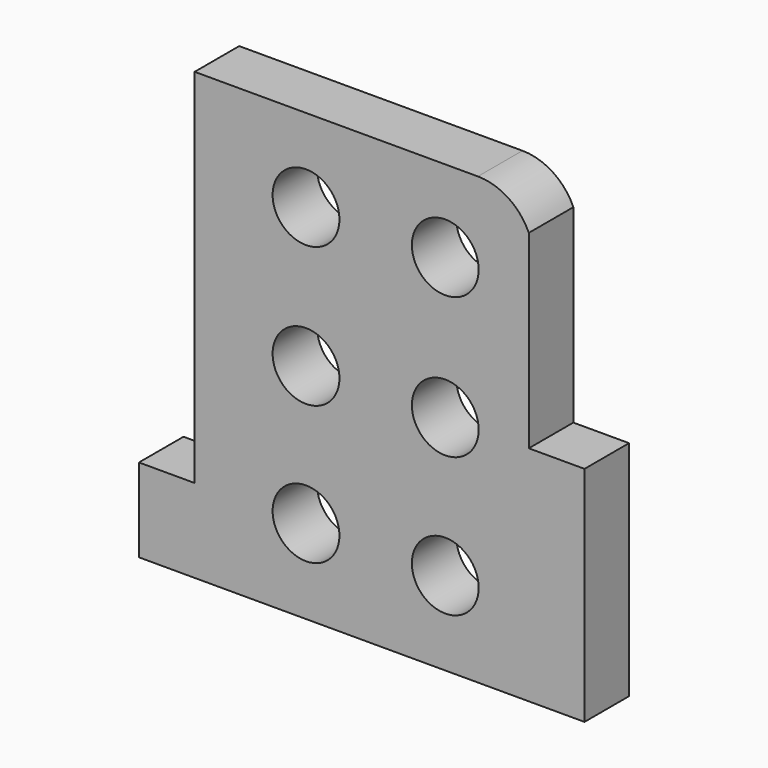
from build123d import *

# Parameters (mm, degrees)
F0_R     = 6
F1_DEPTH = 10


with BuildPart() as f1:
    # F0 (on Front) → F1 (new body)
    with BuildSketch(Plane.XZ):
        with BuildLine():
            Line((0, 15), (0, 0))
            Line((0, 0), (55, 0))
            Line((55, 0), (80, 0))
            Line((80, 0), (80, 40))
            Line((80, 40), (70, 40))
            Line((70, 40), (70, 74.051529))
            ThreePointArc((70, 74.051529), (66.311166, 78.381983), (60.857511, 80))
            Line((60.857511, 80), (10, 80))
            Line((10, 80), (10, 15))
            Line((10, 15), (0, 15))
        make_face()
        with Locations((30, 15.13609)):
            Circle(F0_R, mode=Mode.SUBTRACT)
        with Locations((55, 15)):
            Circle(F0_R, mode=Mode.SUBTRACT)
        with Locations((30, 40)):
            Circle(F0_R, mode=Mode.SUBTRACT)
        with Locations((30, 65.102487)):
            Circle(F0_R, mode=Mode.SUBTRACT)
        with Locations((55, 40)):
            Circle(F0_R, mode=Mode.SUBTRACT)
        with Locations((55, 65.307461)):
            Circle(F0_R, mode=Mode.SUBTRACT)
    extrude(amount=F1_DEPTH)


solid = f1.part
